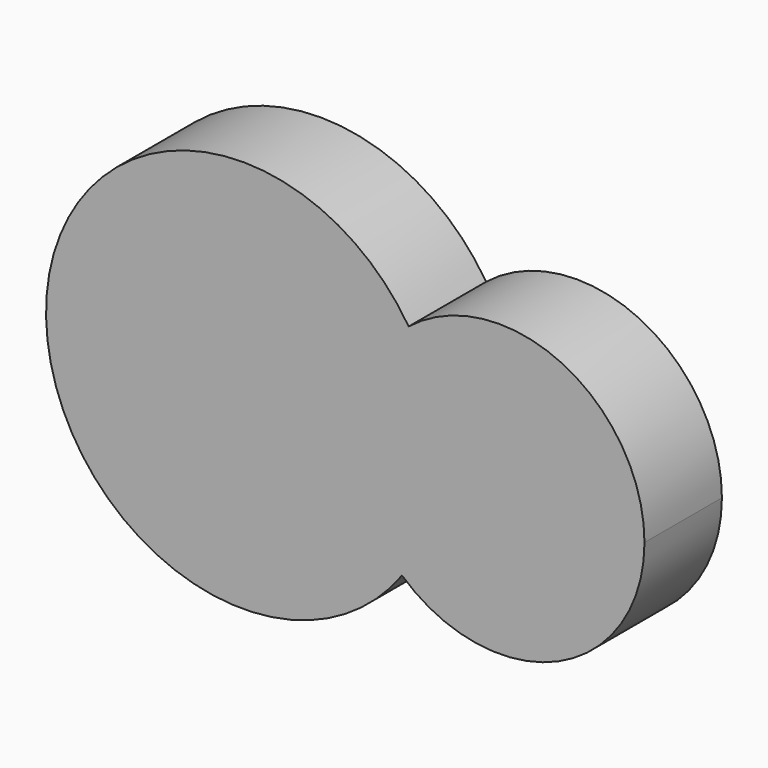
from build123d import *

# Parameters (mm, degrees)
F1_DEPTH = 25.4


with BuildPart() as f1:
    # F0 (on Front) → F1 (new body)
    with BuildSketch(Plane.XZ):
        with BuildLine():
            ThreePointArc((-25.518133, -28.291958), (15.48175, -34.812719), (38.1, 0))
            ThreePointArc((38.1, 0), (16.523398, 34.330559), (-23.7681, 29.777297))
            ThreePointArc((-23.7681, 29.777297), (-17.738962, 16.48076), (-15.674184, 2.027903))
            ThreePointArc((-15.674184, 2.027903), (-18.196817, -13.911022), (-25.518133, -28.291958))
        make_face()
        with BuildLine():
            ThreePointArc((-15.674184, 2.027903), (-17.738962, 16.48076), (-23.7681, 29.777297))
            ThreePointArc((-23.7681, 29.777297), (-38.08271, 1.147698), (-25.518133, -28.291958))
            ThreePointArc((-25.518133, -28.291958), (-18.196817, -13.911022), (-15.674184, 2.027903))
        make_face()
        with BuildLine():
            ThreePointArc((-25.518133, -28.291958), (-38.08271, 1.147698), (-23.7681, 29.777297))
            ThreePointArc((-23.7681, 29.777297), (-118.881425, 3.582728), (-25.518133, -28.291958))
        make_face()
    extrude(amount=F1_DEPTH)


solid = f1.part
